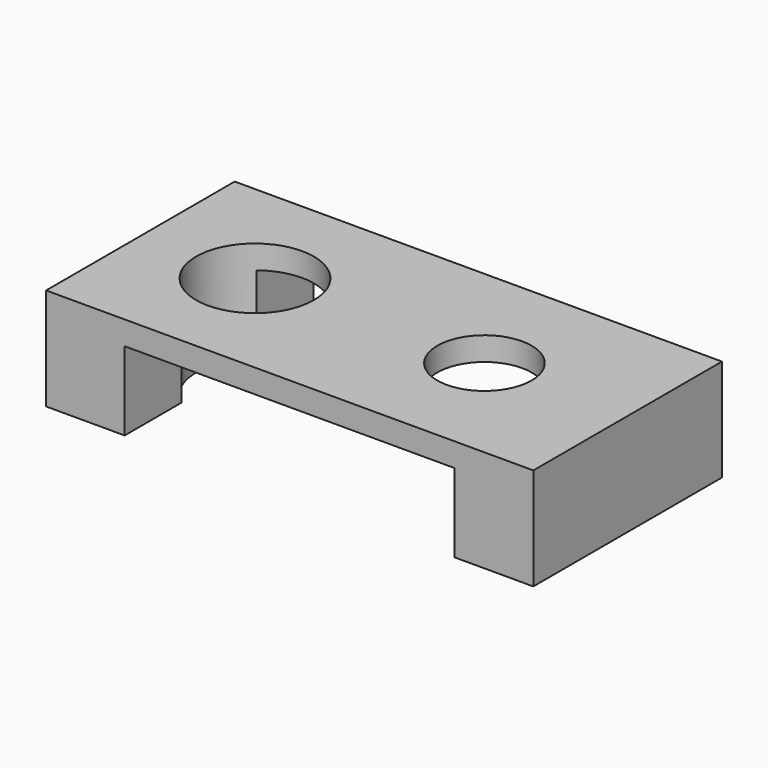
from build123d import *

# Parameters (mm, degrees)
F1_DEPTH = 30
F2_R     = 6
F2_R_2   = 7.5
F3_DEPTH = 13.001


with BuildPart() as f1:
    # F0 (on Front) → F1 (new body)
    with BuildSketch(Plane.XZ):
        Polygon((62, 0), (0, 0), (0, -13), (10, -13), (10, -3), (52, -3), (52, -13), (62, -13), align=None)
    extrude(amount=F1_DEPTH)

    # F2 (on face) → F3 (cut, through all)
    with BuildSketch(Plane.XY):
        with Locations((43.781199, -15)):
            Circle(F2_R)
        with Locations((14.583337, -15)):
            Circle(F2_R_2)
    extrude(amount=-F3_DEPTH, mode=Mode.SUBTRACT)


solid = f1.part
